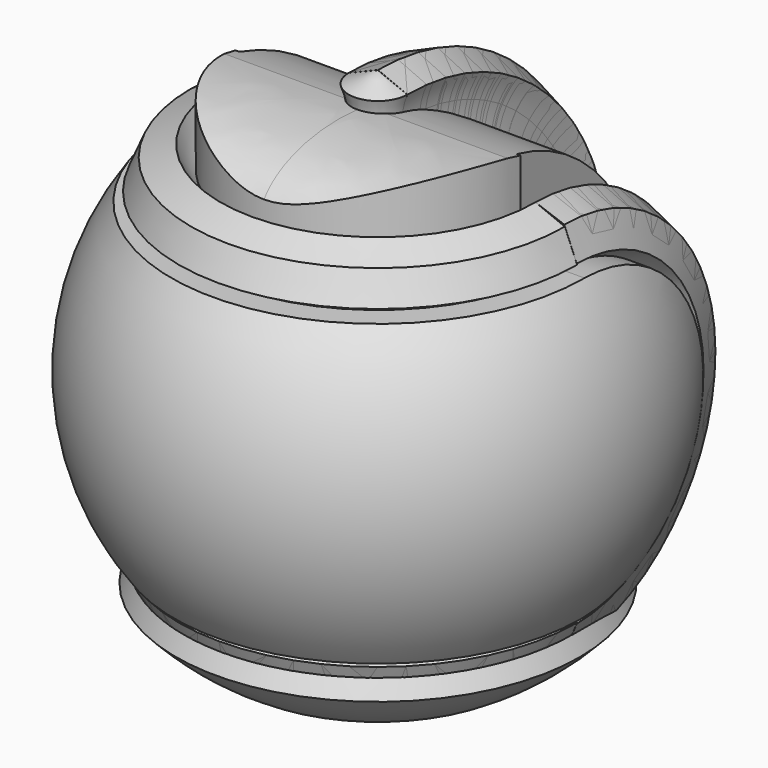
from build123d import *

# Parameters (mm, degrees)
PAD001_DEPTH        = 75
REVOLUTION_ANGLE    = 180
PAD_DEPTH           = 75
REVOLUTION001_ANGLE = -180
PAD002_DEPTH        = 1
PAD003_DEPTH        = 75
SKETCH017_W         = 91.527866
SKETCH017_H         = 19.226277
PAD010_DEPTH        = 47.5
SKETCH015_W         = 1
SKETCH015_H         = 25
PAD009_DEPTH        = 27.5
SKETCH016_W         = 13.505972
SKETCH016_H         = 9.125655
SKETCH016_H_2       = 9.612357
SKETCH016_H_3       = 9.734032
POCKET_DEPTH        = 5
SKETCH014_W         = 12.4
SKETCH014_H         = 12.4
PAD008_DEPTH        = 50
CHAMFER_SIZE        = 4
PAD005_DEPTH        = 75
REVOLUTION004_ANGLE = 180
PAD004_DEPTH        = 75
REVOLUTION003_ANGLE = -180
PAD006_DEPTH        = 1
PAD007_DEPTH        = 1
FILLET_R            = 0.9
FILLET001_R         = 0.8
PAD013_DEPTH        = 50
REVOLUTION006_ANGLE = -180
REVOLUTION007_ANGLE = 180
PAD012_DEPTH        = 47.5
PAD011_DEPTH        = 30


with BuildPart() as pad001:
    # Sketch003 → Pad001 (new body, symmetric)
    with BuildSketch(Plane.YZ):
        with BuildLine():
            Line((-0.010298, 25.66333), (-100, 25.66333))
            Line((-100, 25.66333), (-100, -26.33667))
            Line((-0.010304, -26.33667), (-100, -26.33667))
            ThreePointArc((-0.010304, -26.33667), (25.989696, -0.336673), (-0.010298, 25.66333))
        make_face()
    extrude(amount=PAD001_DEPTH, both=True)


with BuildPart() as cut:
    # Sketch → Revolution (revolve)
    with BuildSketch(Plane.XZ):
        with BuildLine():
            Line((-45.729943, -0.0001), (-43.624967, -5.081343))
            ThreePointArc((-34.439694, -27.25386), (-27.946521, -11.575151), (-43.624967, -5.081343))
            Line((-34.439694, -27.25386), (-32.33569, -32.332756))
            Line((-32.33569, -32.332756), (-27.247774, -34.437871))
            ThreePointArc((-5.088903, -43.606058), (-11.588515, -27.952849), (-27.247774, -34.437871))
            Line((-5.088903, -43.606058), (0, -45.711581))
            Line((0, 45.696878), (0, -45.711581))
            Line((0, 45.696878), (-5.062139, 43.628512))
            ThreePointArc((-27.25988, 34.445118), (-11.589352, 27.986384), (-5.062139, 43.628512))
            Line((-32.322868, 32.378834), (-27.25988, 34.445118))
            Line((-34.440544, 27.25445), (-32.322868, 32.378834))
            ThreePointArc((-43.624947, 5.081341), (-27.946189, 11.575693), (-34.440544, 27.25445))
            Line((-43.624947, 5.081341), (-45.729943, -0.0001))
        make_face()
    revolve(axis=Axis((0, 0, 0), (0, 0, 1)), revolution_arc=REVOLUTION_ANGLE)

    # Cut: cut Pad001
    add(pad001.part, mode=Mode.SUBTRACT)


with BuildPart() as pad:
    # Sketch002 → Pad (new body, symmetric)
    with BuildSketch(Plane.YZ):
        with BuildLine():
            Line((-0.010292, 25.66333), (-52.710026, 25.66333))
            Line((-52.710026, 25.66333), (-52.710026, -26.33667))
            Line((-0.010304, -26.33667), (-52.710026, -26.33667))
            ThreePointArc((-0.010304, -26.33667), (25.989696, -0.336676), (-0.010292, 25.66333))
        make_face()
    extrude(amount=PAD_DEPTH, both=True)


with BuildPart() as pad002:
    # Sketch001 → Revolution001 (revolve)
    with BuildSketch(Plane(origin=(0, 0, 0), x_dir=(0, 0, -1), z_dir=(0, -1, 0))):
        with BuildLine():
            Line((-45.729943, -0.0001), (-43.624967, -5.081343))
            ThreePointArc((-34.439694, -27.25386), (-27.946521, -11.575151), (-43.624967, -5.081343))
            Line((-34.439694, -27.25386), (-32.33569, -32.332756))
            Line((-32.33569, -32.332756), (-27.247774, -34.437871))
            ThreePointArc((-5.088903, -43.606058), (-11.588515, -27.952849), (-27.247774, -34.437871))
            Line((-5.088903, -43.606058), (0, -45.711581))
            Line((0, 45.713883), (0, -45.711581))
            Line((0, 45.713883), (-5.281246, 43.646133))
            ThreePointArc((-27.417278, 34.389038), (-11.825552, 28.200262), (-5.281246, 43.646133))
            Line((-32.665373, 32.238537), (-27.417278, 34.389038))
            Line((-34.440544, 27.25445), (-32.665373, 32.238537))
            ThreePointArc((-43.624947, 5.081341), (-27.946189, 11.575693), (-34.440544, 27.25445))
            Line((-43.624947, 5.081341), (-45.729943, -0.0001))
        make_face()
    revolve(axis=Axis((0, 0, 0), (1, 0, 0)), revolution_arc=REVOLUTION001_ANGLE)

    # Cut001: cut Pad
    add(pad.part, mode=Mode.SUBTRACT)

    # Fusion: union Cut
    add(cut.part)

    # Sketch004 → Pad002 (new body)
    with BuildSketch(Plane(origin=(0, 0, 25.66333), x_dir=(1, 0, 0), z_dir=(0, 0, -1))):
        with BuildLine():
            ThreePointArc((-18.734768, 22.136135), (-22.323861, 18.510679), (-25.222121, 14.312394))
            Line((-26.903501, 15.401352), (-25.222121, 14.312394))
            ThreePointArc((-19.955973, 23.722545), (-23.796284, 19.867986), (-26.903501, 15.401352))
            Line((-19.955973, 23.722545), (-18.734768, 22.136135))
        make_face()
        with BuildLine():
            Line((-5.112838, 30.575462), (-5.112838, 28.545733))
            ThreePointArc((5.211598, 28.527868), (0.050181, 28.999957), (-5.112838, 28.545733))
            Line((5.211598, 30.558783), (5.211598, 28.527868))
            ThreePointArc((5.211598, 30.558783), (0.050079, 30.99996), (-5.112838, 30.575462))
        make_face()
        with BuildLine():
            Line((26.862871, 15.47211), (25.078509, 14.562568))
            ThreePointArc((25.078509, 14.562568), (22.17381, 18.690161), (18.597456, 22.251621))
            Line((19.892506, 23.77579), (18.597456, 22.251621))
            ThreePointArc((26.862871, 15.47211), (23.743506, 19.931029), (19.892506, 23.77579))
        make_face()
    extrude(amount=PAD002_DEPTH)


with BuildPart() as revolution002:
    # Sketch006 → Revolution002 (revolve)
    with BuildSketch(Plane.XZ):
        with BuildLine():
            ThreePointArc((-5e-06, 37), (-37, -3e-06), (0, -37))
            Line((0, -37), (0, -44))
            ThreePointArc((-5e-06, 44), (-44, -3e-06), (0, -44))
            Line((-5e-06, 37), (-5e-06, 44))
        make_face()
    revolve(axis=Axis((0, 0, 0), (0, 0, 1)))


with BuildPart() as common:
    # Sketch005 → Pad003 (new body, symmetric)
    with BuildSketch(Plane.YZ):
        with BuildLine():
            Line((-0.010298, 25.66333), (-100, 25.66333))
            Line((-100, 25.66333), (-100, -26.33667))
            Line((-0.010304, -26.33667), (-100, -26.33667))
            ThreePointArc((-0.010304, -26.33667), (25.989696, -0.336673), (-0.010298, 25.66333))
        make_face()
    extrude(amount=PAD003_DEPTH, both=True)

    # Common: intersect Revolution002
    add(revolution002.part, mode=Mode.INTERSECT)


with BuildPart() as pad010:
    # Sketch017 → Pad010 (new body, symmetric)
    with BuildSketch(Plane.XZ):
        with Locations((1.78233, -50.561166)):
            Rectangle(SKETCH017_W, SKETCH017_H)
    extrude(amount=PAD010_DEPTH, both=True)


with BuildPart() as pocket:
    # Sketch015 → Pad009 (new body, symmetric)
    with BuildSketch(Plane.YZ):
        with Locations((23.000852, -0.059134)):
            Rectangle(SKETCH015_W, SKETCH015_H)
    extrude(amount=PAD009_DEPTH, both=True)

    # Sketch016 → Pocket (cut)
    with BuildSketch(Plane(origin=(0, 22.500852, 0), x_dir=(0, 0, -1), z_dir=(0, -1, 0))):
        with Locations((-10.452033, 16.741771)):
            Rectangle(SKETCH016_W, SKETCH016_H)
        with Locations((10.452033, 16.741771)):
            Rectangle(SKETCH016_W, SKETCH016_H)
        with Locations((-10.330358, -16.498419)):
            Rectangle(SKETCH016_W, SKETCH016_H_2)
        with Locations((10.452033, -16.437582)):
            Rectangle(SKETCH016_W, SKETCH016_H_3)
    extrude(amount=-POCKET_DEPTH, mode=Mode.SUBTRACT)


with BuildPart() as pad008:
    # Sketch014 → Pad008 (new body, symmetric)
    with BuildSketch(Plane.XZ):
        with Locations((-16.599269, 0)):
            Rectangle(SKETCH014_W, SKETCH014_H)
        with Locations((16.599269, 0)):
            Rectangle(SKETCH014_W, SKETCH014_H)
    extrude(amount=PAD008_DEPTH, both=True)


with BuildPart() as chamfer_body:
    # Sketch013 → Revolution005 (revolve)
    with BuildSketch(Plane.XZ):
        with BuildLine():
            ThreePointArc((10.008443, -46.518567), (25.281665, -40.311083), (37.519896, -29.26437))
            Line((0, -29.26437), (37.519896, -29.26437))
            Line((0, -29.26437), (0, -46.518567))
            Line((0, -46.518567), (10.008443, -46.518567))
        make_face()
    revolve(axis=Axis((0, 0, 0), (0, 0, 1)))

    # Chamfer
    chamfer_edges = [chamfer_body.edges().sort_by_distance(p)[0] for p in [
        (-37.519896, 0, -29.26437),
    ]]
    chamfer(chamfer_edges, length=CHAMFER_SIZE)


with BuildPart() as pad005:
    # Sketch010 → Pad005 (new body, symmetric)
    with BuildSketch(Plane.YZ):
        with BuildLine():
            Line((-0.010298, 25.66333), (-100, 25.66333))
            Line((-100, 25.66333), (-100, -26.33667))
            Line((-0.010304, -26.33667), (-100, -26.33667))
            ThreePointArc((-0.010304, -26.33667), (25.989696, -0.336673), (-0.010298, 25.66333))
        make_face()
    extrude(amount=PAD005_DEPTH, both=True)


with BuildPart() as cut002:
    # Sketch007 → Revolution004 (revolve)
    with BuildSketch(Plane.XZ):
        with BuildLine():
            Line((-45.729943, -0.0001), (-43.624967, -5.081343))
            ThreePointArc((-34.439694, -27.25386), (-27.946521, -11.575151), (-43.624967, -5.081343))
            Line((-34.439694, -27.25386), (-32.33569, -32.332756))
            Line((-32.33569, -32.332756), (-27.247774, -34.437871))
            ThreePointArc((-5.088903, -43.606058), (-11.588515, -27.952849), (-27.247774, -34.437871))
            Line((-5.088903, -43.606058), (0, -45.711581))
            Line((0, 45.696878), (0, -45.711581))
            Line((0, 45.696878), (-5.062139, 43.628512))
            ThreePointArc((-27.25988, 34.445118), (-11.589352, 27.986384), (-5.062139, 43.628512))
            Line((-32.322868, 32.378834), (-27.25988, 34.445118))
            Line((-34.440544, 27.25445), (-32.322868, 32.378834))
            ThreePointArc((-43.624947, 5.081341), (-27.946189, 11.575693), (-34.440544, 27.25445))
            Line((-43.624947, 5.081341), (-45.729943, -0.0001))
        make_face()
    revolve(axis=Axis((0, 0, 0), (0, 0, 1)), revolution_arc=REVOLUTION004_ANGLE)

    # Cut002: cut Pad005
    add(pad005.part, mode=Mode.SUBTRACT)


with BuildPart() as pad004:
    # Sketch009 → Pad004 (new body, symmetric)
    with BuildSketch(Plane.YZ):
        with BuildLine():
            Line((-0.010292, 25.66333), (-52.710026, 25.66333))
            Line((-52.710026, 25.66333), (-52.710026, -26.33667))
            Line((-0.010304, -26.33667), (-52.710026, -26.33667))
            ThreePointArc((-0.010304, -26.33667), (25.989696, -0.336676), (-0.010292, 25.66333))
        make_face()
    extrude(amount=PAD004_DEPTH, both=True)


with BuildPart() as cut005:
    # Sketch008 → Revolution003 (revolve)
    with BuildSketch(Plane(origin=(0, 0, 0), x_dir=(0, 0, -1), z_dir=(0, -1, 0))):
        with BuildLine():
            Line((-45.729943, -0.0001), (-43.624967, -5.081343))
            ThreePointArc((-34.439694, -27.25386), (-27.946521, -11.575151), (-43.624967, -5.081343))
            Line((-34.439694, -27.25386), (-32.33569, -32.332756))
            Line((-32.33569, -32.332756), (-27.247774, -34.437871))
            ThreePointArc((-5.088903, -43.606058), (-11.588515, -27.952849), (-27.247774, -34.437871))
            Line((-5.088903, -43.606058), (0, -45.711581))
            Line((0, 45.713883), (0, -45.711581))
            Line((0, 45.713883), (-5.281246, 43.646133))
            ThreePointArc((-27.417278, 34.389038), (-11.825552, 28.200262), (-5.281246, 43.646133))
            Line((-32.665373, 32.238537), (-27.417278, 34.389038))
            Line((-34.440544, 27.25445), (-32.665373, 32.238537))
            ThreePointArc((-43.624947, 5.081341), (-27.946189, 11.575693), (-34.440544, 27.25445))
            Line((-43.624947, 5.081341), (-45.729943, -0.0001))
        make_face()
    revolve(axis=Axis((0, 0, 0), (1, 0, 0)), revolution_arc=REVOLUTION003_ANGLE)

    # Cut003: cut Pad004
    add(pad004.part, mode=Mode.SUBTRACT)

    # Fusion001: union Cut002
    add(cut002.part)

    # Sketch011 → Pad006 (new body)
    with BuildSketch(Plane(origin=(0, 0, 25.66333), x_dir=(1, 0, 0), z_dir=(0, 0, -1))):
        with BuildLine():
            ThreePointArc((-18.734768, 22.136135), (-22.323861, 18.510679), (-25.222121, 14.312394))
            Line((-26.903501, 15.401352), (-25.222121, 14.312394))
            ThreePointArc((-19.955973, 23.722545), (-23.796284, 19.867986), (-26.903501, 15.401352))
            Line((-19.955973, 23.722545), (-18.734768, 22.136135))
        make_face()
        with BuildLine():
            Line((-5.112838, 30.575462), (-5.112838, 28.545733))
            ThreePointArc((5.211598, 28.527868), (0.050181, 28.999957), (-5.112838, 28.545733))
            Line((5.211598, 30.558783), (5.211598, 28.527868))
            ThreePointArc((5.211598, 30.558783), (0.050079, 30.99996), (-5.112838, 30.575462))
        make_face()
        with BuildLine():
            Line((26.862871, 15.47211), (25.078509, 14.562568))
            ThreePointArc((25.078509, 14.562568), (22.17381, 18.690161), (18.597456, 22.251621))
            Line((19.892506, 23.77579), (18.597456, 22.251621))
            ThreePointArc((26.862871, 15.47211), (23.743506, 19.931029), (19.892506, 23.77579))
        make_face()
    extrude(amount=PAD006_DEPTH)

    # Sketch012 → Pad007 (new body)
    with BuildSketch(Plane.XY.offset(-26.33667)):
        with BuildLine():
            ThreePointArc((-25.32235, -14.37851), (-22.343365, -18.674502), (-18.644251, -22.368613))
            Line((-18.644251, -22.368613), (-19.703461, -23.650608))
            ThreePointArc((-26.82587, -15.098025), (-23.654415, -19.698891), (-19.703461, -23.650608))
            Line((-25.32235, -14.37851), (-26.82587, -15.098025))
        make_face()
        with BuildLine():
            Line((-5.215949, -28.648854), (-5.215949, -30.337626))
            ThreePointArc((-5.215949, -30.337626), (0.060202, -30.78269), (5.334572, -30.316992))
            Line((5.334572, -28.627003), (5.334572, -30.316992))
            ThreePointArc((-5.215949, -28.648854), (0.060309, -29.119741), (5.334572, -28.627003))
        make_face()
        with BuildLine():
            Line((18.417055, -22.556042), (19.644005, -23.700015))
            ThreePointArc((19.644005, -23.700015), (23.554115, -19.818712), (26.709722, -15.302561))
            Line((25.167814, -14.647323), (26.709722, -15.302561))
            ThreePointArc((18.417055, -22.556042), (22.148299, -18.905443), (25.167814, -14.647323))
        make_face()
    extrude(amount=PAD007_DEPTH)

    # Fillet
    fillet_edges = [cut005.edges().sort_by_distance(p)[0] for p in [
        (-19.34537, -22.92934, 24.66333),
        (-22.323861, -18.510679, 24.66333),
        (-26.062811, -14.856873, 24.66333),
        (-23.796284, -19.867986, 24.66333),
        (0.050079, -30.99996, 24.66333),
        (-5.112838, -29.560598, 24.66333),
        (0.050181, -28.999957, 24.66333),
        (5.211598, -29.543326, 24.66333),
        (25.97069, -15.017339, 24.66333),
        (22.17381, -18.690161, 24.66333),
        (19.244981, -23.013706, 24.66333),
        (23.743506, -19.931029, 24.66333),
    ]]
    fillet(fillet_edges, radius=FILLET_R)

    # Fillet001
    fillet001_edges = [cut005.edges().sort_by_distance(p)[0] for p in [
        (22.148299, -18.905443, -25.33667),
        (19.03053, -23.128029, -25.33667),
        (23.554115, -19.818712, -25.33667),
        (25.938768, -14.974942, -25.33667),
        (0.060309, -29.119741, -25.33667),
        (-5.215949, -29.49324, -25.33667),
        (0.060202, -30.78269, -25.33667),
        (5.334572, -29.471997, -25.33667),
        (-22.343365, -18.674502, -25.33667),
        (-19.173856, -23.009611, -25.33667),
        (-23.654415, -19.698891, -25.33667),
        (-26.07411, -14.738268, -25.33667),
    ]]
    fillet(fillet001_edges, radius=FILLET001_R)

    # Fusion002: union Chamfer body
    add(chamfer_body.part)

    # Cut004: cut Pad008
    add(pad008.part, mode=Mode.SUBTRACT)

    # Fusion003: union Pocket
    add(pocket.part)

    # Cut005: cut Pad010
    add(pad010.part, mode=Mode.SUBTRACT)


with BuildPart() as pad013:
    # Sketch022 → Pad013 (new body, symmetric)
    with BuildSketch(Plane.XY):
        Polygon((-23.965136, 0), (-21.257221, 40.348095), (-10.955047, 40.348095), (-3.227834, 0), (0, 0), (3.35214, -0.098307), (10.955047, 40.348095), (21.257221, 40.348095), (23.965136, 0), (31.818123, 0), (31.818123, -31.411936), (0, -31.411936), (-31.818123, -31.411936), (-31.818123, 0), align=None)
    extrude(amount=PAD013_DEPTH, both=True)


with BuildPart() as revolution007:
    # Sketch018 → Revolution006 (revolve)
    with BuildSketch(Plane(origin=(0, 0, 0), x_dir=(0, 0, -1), z_dir=(0, -1, 0))):
        with BuildLine():
            Line((-45.729943, -0.0001), (-43.624967, -5.081343))
            ThreePointArc((-34.439694, -27.25386), (-27.946521, -11.575151), (-43.624967, -5.081343))
            Line((-34.439694, -27.25386), (-32.33569, -32.332756))
            Line((-32.33569, -32.332756), (-27.247774, -34.437871))
            ThreePointArc((-5.088903, -43.606058), (-11.588515, -27.952849), (-27.247774, -34.437871))
            Line((-5.088903, -43.606058), (0, -45.711581))
            Line((0, 45.713883), (0, -45.711581))
            Line((0, 45.713883), (-5.281246, 43.646133))
            ThreePointArc((-27.417278, 34.389038), (-11.825552, 28.200262), (-5.281246, 43.646133))
            Line((-32.665373, 32.238537), (-27.417278, 34.389038))
            Line((-34.440544, 27.25445), (-32.665373, 32.238537))
            ThreePointArc((-43.624947, 5.081341), (-27.946189, 11.575693), (-34.440544, 27.25445))
            Line((-43.624947, 5.081341), (-45.729943, -0.0001))
        make_face()
    revolve(axis=Axis((0, 0, 0), (1, 0, 0)), revolution_arc=REVOLUTION006_ANGLE)

    # Sketch019 → Revolution007 (revolve)
    with BuildSketch(Plane(origin=(0, 0, 0), x_dir=(0, 0, -1), z_dir=(0, -1, 0))):
        with BuildLine():
            Line((-43.602459, 5.103324), (-45.735149, 0))
            Line((-45.735149, 0), (45.700275, 0))
            Line((43.624947, 5.081341), (45.700275, 0))
            ThreePointArc((34.440544, 27.25445), (27.946189, 11.575693), (43.624947, 5.081341))
            Line((32.665373, 32.238537), (34.440544, 27.25445))
            Line((27.417277, 34.389036), (32.665373, 32.238537))
            ThreePointArc((5.281246, 43.646133), (11.825551, 28.200262), (27.417277, 34.389036))
            Line((0, 45.713883), (5.281246, 43.646133))
            Line((-5.281246, 43.646133), (0, 45.713883))
            ThreePointArc((-27.417278, 34.389038), (-11.825552, 28.200262), (-5.281246, 43.646133))
            Line((-32.665373, 32.238537), (-27.417278, 34.389038))
            Line((-34.440554, 27.25444), (-32.665373, 32.238537))
            ThreePointArc((-43.602459, 5.103324), (-27.952764, 11.600748), (-34.440554, 27.25444))
        make_face()
    revolve(axis=Axis((0, 0, 45.735149), (0, 0, -1)), revolution_arc=REVOLUTION007_ANGLE)


with BuildPart() as pad012:
    # Sketch021 → Pad012 (new body, symmetric)
    with BuildSketch(Plane.XY):
        with BuildLine():
            ThreePointArc((-24.607533, 0.879197), (-0.268657, -24.621769), (24.620858, 0.342047))
            Line((24.620858, 0.342047), (24.620858, 54.700766))
            Line((24.620858, 54.700766), (47.52409, 54.700766))
            Line((47.52409, 54.700766), (47.52409, -47.117903))
            Line((47.52409, -47.117903), (-47.79488, -47.117903))
            Line((-47.79488, -47.117903), (-47.79488, 54.700766))
            Line((-47.79488, 54.700766), (-24.607533, 54.700766))
            Line((-24.607533, 0.879197), (-24.607533, 54.700766))
        make_face()
    extrude(amount=PAD012_DEPTH, both=True)


with BuildPart() as common001:
    # Sketch020 → Pad011 (new body, symmetric)
    with BuildSketch(Plane.YZ):
        with BuildLine():
            add(Edge.make_bspline(
                [(-2.589816, 41.284622), (-30.792116, 45.321477), (-25.258136, 30.502083), (-19.724156, 15.68269), (5.534182, 19.529445)],
                knots=[1.570796, 1.570796, 1.570796, 3.410823, 3.410823, 5.25085, 5.25085, 5.25085], degree=2, weights=[1, 0.60581, 1, 0.60581, 1]))
            Line((5.534182, 19.529445), (24.176344, -11.889832))
            Line((24.176344, -11.889832), (28.150518, -11.813195))
            ThreePointArc((28.150518, -11.813195), (24.969547, 21.7925), (-2.589816, 41.284622))
        make_face()
    extrude(amount=PAD011_DEPTH, both=True)

    # Cut006: cut Pad012
    add(pad012.part, mode=Mode.SUBTRACT)

    # Cut007: cut Revolution007
    add(revolution007.part, mode=Mode.SUBTRACT)

    # Common001: intersect Pad013
    add(pad013.part, mode=Mode.INTERSECT)


solid = Compound([pad002.part, common.part, cut005.part, common001.part])
